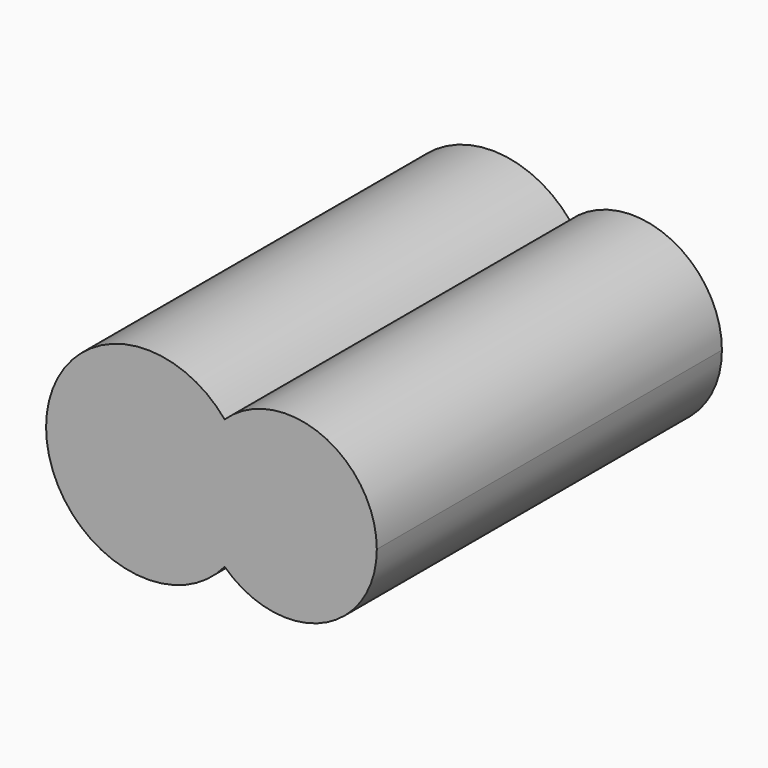
from build123d import *

# Parameters (mm, degrees)
F1_DEPTH = 152.4


with BuildPart() as f1:
    # F0 (on Front) → F1 (new body)
    with BuildSketch(Plane.XZ):
        with BuildLine():
            ThreePointArc((9.7617513215, -22.9036988291), (15.9325028729, -12.1828952576), (18.0751337486, 0))
            ThreePointArc((18.0751337486, 0), (15.9325028729, 12.1828952576), (9.7617513215, 22.9036988291))
            ThreePointArc((9.7617513215, 22.9036988291), (0, 0), (9.7617513215, -22.9036988291))
        make_face()
        with BuildLine():
            ThreePointArc((9.7617513215, 22.9036988291), (15.9325028729, 12.1828952576), (18.0751337486, 0))
            ThreePointArc((18.0751337486, 0), (15.9325028729, -12.1828952576), (9.7617513215, -22.9036988291))
            ThreePointArc((9.7617513215, -22.9036988291), (44.1986064372, -29.207784883), (63.5, 0))
            ThreePointArc((63.5, 0), (44.1986064372, 29.207784883), (9.7617513215, 22.9036988291))
        make_face()
        with BuildLine():
            ThreePointArc((9.7617513215, -22.9036988291), (0, 0), (9.7617513215, 22.9036988291))
            ThreePointArc((9.7617513215, 22.9036988291), (-53.3388487837, 0), (9.7617513215, -22.9036988291))
        make_face()
    extrude(amount=F1_DEPTH)


solid = f1.part
